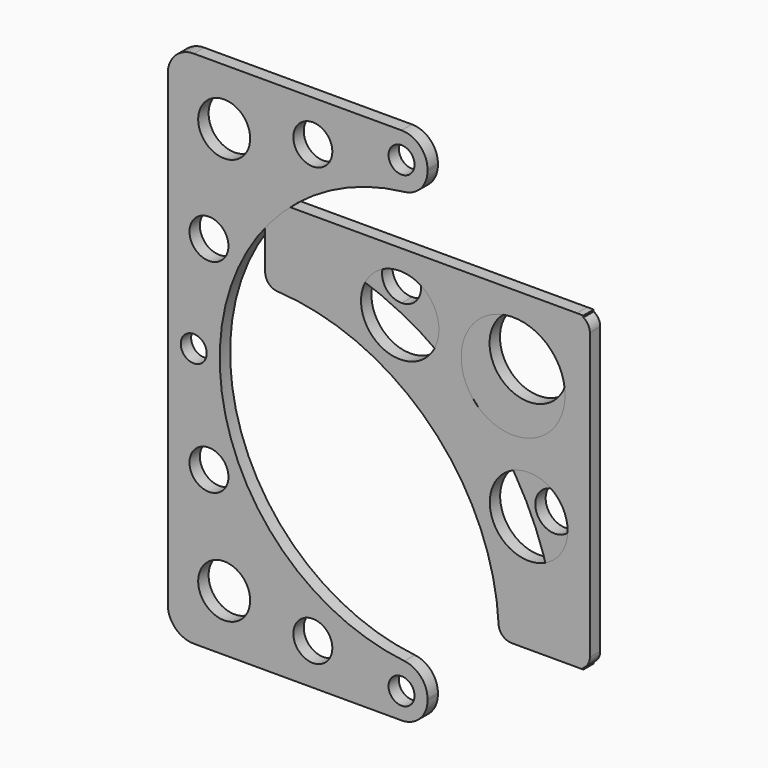
from build123d import *

# Parameters (mm, degrees)
F0_R     = 4.7625
F0_R_2   = 9.525
F1_DEPTH = 3.175
F2_R     = 9.525
F2_R_2   = 12.7
F3_DEPTH = 3.175
F4_R     = 6.35
F4_R_2   = 4.7625
F4_R_3   = 3.175
F5_DEPTH = 3.175


with BuildPart() as f1:
    # F0 (on Front) → F1 (new body)
    with BuildSketch(Plane.XZ):
        with BuildLine():
            Line((38.1, -38.1), (38.1, 38.1))
            Line((38.1, 38.1), (-6.35, 38.1))
            Line((-6.35, 38.1), (-6.35, 35.87102))
            ThreePointArc((-6.35, 35.87102), (-2.982404, 34.476116), (-1.5875, 31.10852))
            ThreePointArc((-1.5875, 31.10852), (-2.982404, 27.740924), (-6.35, 26.34602))
            Line((-6.35, 26.34602), (-6.35, 24.117039))
            ThreePointArc((-6.35, 24.117039), (21.46828, -1.622027), (31.75, -38.1))
            Line((31.75, -38.1), (38.1, -38.1))
        make_face()
        with Locations((31.10852, -6.35)):
            Circle(F0_R, mode=Mode.SUBTRACT)
        with Locations((24.695704, 24.695704)):
            Circle(F0_R_2, mode=Mode.SUBTRACT)
        with BuildLine():
            Line((-6.35, 35.87102), (-6.35, 38.1))
            Line((-6.35, 38.1), (-38.1, 38.1))
            Line((-38.1, 38.1), (-38.1, 31.75))
            ThreePointArc((-38.1, 31.75), (-21.772687, 29.814957), (-6.35, 24.117039))
            Line((-6.35, 24.117039), (-6.35, 26.34602))
            ThreePointArc((-6.35, 26.34602), (-11.1125, 31.10852), (-6.35, 35.87102))
        make_face()
    extrude(amount=F1_DEPTH)


with BuildPart() as f3:
    # F2 (on Front) → F3 (new body)
    with BuildSketch(Plane.XZ):
        with BuildLine():
            ThreePointArc((39.6875, 34.925), (38.757564, 37.170064), (36.5125, 38.1))
            Line((36.5125, 38.1), (-36.5125, 38.1))
            ThreePointArc((-36.5125, 38.1), (-38.757564, 37.170064), (-39.6875, 34.925))
            Line((-39.6875, 34.925), (-39.6875, 22.141389))
            ThreePointArc((-39.6875, 22.141389), (-38.815887, 19.956205), (-36.679605, 18.97079))
            ThreePointArc((-36.679605, 18.97079), (0.723653, 2.311153), (17.38329, -35.092105))
            ThreePointArc((17.38329, -35.092105), (18.368705, -37.228387), (20.553889, -38.1))
            Line((20.553889, -38.1), (36.5125, -38.1))
            ThreePointArc((36.5125, -38.1), (38.757564, -37.170064), (39.6875, -34.925))
            Line((39.6875, -34.925), (39.6875, 34.925))
        make_face()
        with Locations((24.746676, -9.525)):
            Circle(F2_R, mode=Mode.SUBTRACT)
        with Locations((-6.729639, 23.608257)):
            Circle(F2_R, mode=Mode.SUBTRACT)
        with Locations((20.930961, 19.453162)):
            Circle(F2_R_2, mode=Mode.SUBTRACT)
    extrude(amount=F3_DEPTH)


with BuildPart() as f5:
    # F4 (on Front) → F5 (new body)
    with BuildSketch(Plane.XZ):
        with BuildLine():
            ThreePointArc((0, 57.15), (-1.859872, 61.640128), (-6.35, 63.5))
            Line((-6.35, 63.5), (-57.15, 63.5))
            ThreePointArc((-57.15, 63.5), (-59.58004, 63.016635), (-61.640128, 61.640128))
            ThreePointArc((-61.640128, 61.640128), (-63.016635, 59.58004), (-63.5, 57.15))
            Line((-63.5, 57.15), (-63.5, -57.15))
            ThreePointArc((-63.5, -57.15), (-63.016635, -59.58004), (-61.640128, -61.640128))
            ThreePointArc((-61.640128, -61.640128), (-59.58004, -63.016635), (-57.15, -63.5))
            Line((-57.15, -63.5), (-6.35, -63.5))
            ThreePointArc((-6.35, -63.5), (-1.859872, -61.640128), (0, -57.15))
            Line((0, -57.15), (0, -56.796127))
            ThreePointArc((0, -56.796127), (-1.616989, -52.562793), (-5.644444, -50.485446))
            ThreePointArc((-5.644444, -50.485446), (-50.8, 0), (-5.644444, 50.485446))
            ThreePointArc((-5.644444, 50.485446), (-1.616989, 52.562793), (0, 56.796127))
            Line((0, 56.796127), (0, 57.15))
        make_face()
        with Locations((-49.710512, -49.710512)):
            Circle(F4_R, mode=Mode.SUBTRACT)
        with Locations((-53.430256, -24.855256)):
            Circle(F4_R_2, mode=Mode.SUBTRACT)
        with Locations((-28.030256, -53.430256)):
            Circle(F4_R_2, mode=Mode.SUBTRACT)
        with Locations((-6.35, -57.15)):
            Circle(F4_R_3, mode=Mode.SUBTRACT)
        with Locations((-57.15, 0)):
            Circle(F4_R_3, mode=Mode.SUBTRACT)
        with Locations((-53.430256, 24.855256)):
            Circle(F4_R_2, mode=Mode.SUBTRACT)
        with Locations((-49.710512, 49.710512)):
            Circle(F4_R, mode=Mode.SUBTRACT)
        with Locations((-28.030256, 53.430256)):
            Circle(F4_R_2, mode=Mode.SUBTRACT)
        with Locations((-6.35, 57.15)):
            Circle(F4_R_3, mode=Mode.SUBTRACT)
    extrude(amount=F5_DEPTH)


solid = Compound([f1.part, f3.part, f5.part])
